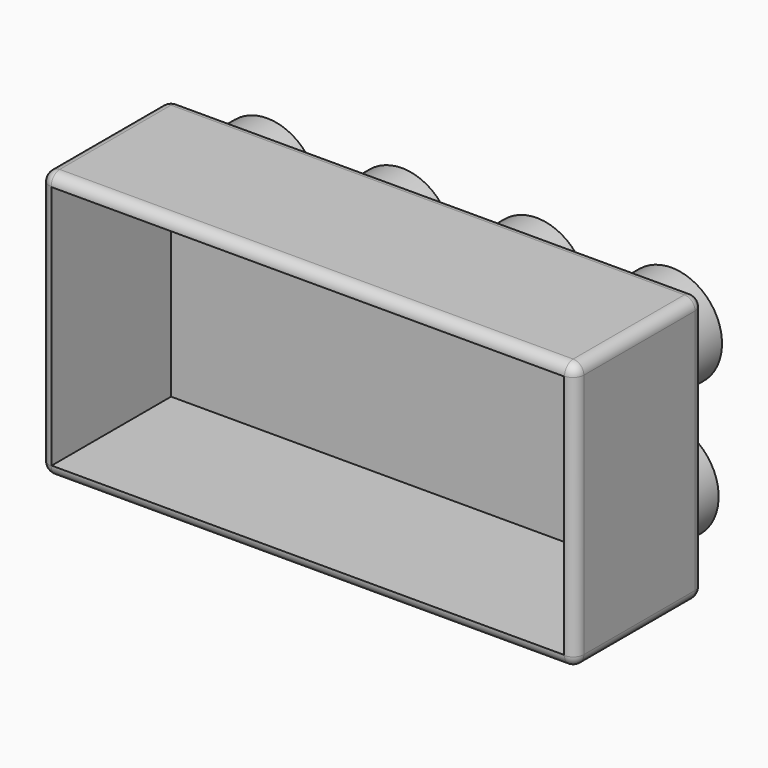
from build123d import *

# Parameters (mm, degrees)
F0_W     = 63.5
F0_H     = 19.05
F1_DEPTH = 31.75
F2_T     = -1.3208
F3_R     = 5.9944
F3_R_2   = 4.6736
F4_DEPTH = 5.08
F5_R     = 1.27


with BuildPart() as f1:
    # F0 (on Top) → F1 (new body)
    with BuildSketch(Plane.XY):
        with Locations((-31.75, 9.525)):
            Rectangle(F0_W, F0_H)
    extrude(amount=F1_DEPTH)

    # F2
    f2_openings = [f1.faces().sort_by_distance(p)[0] for p in [
        (-31.75, 0, 15.875),
    ]]
    offset(amount=F2_T, openings=f2_openings)

    # F3 (on face) → F4 (join)
    with BuildSketch(Plane(origin=(0, 19.05, 0), x_dir=(-1, 0, 0), z_dir=(0, 1, 0))):
        with Locations((7.874, 23.876)):
            Circle(F3_R)
        with Locations((7.874, 23.876)):
            Circle(F3_R_2, mode=Mode.SUBTRACT)
        with Locations((23.876, 23.876)):
            Circle(F3_R)
        with Locations((23.876, 23.876)):
            Circle(F3_R_2, mode=Mode.SUBTRACT)
        with Locations((39.878, 23.876)):
            Circle(F3_R)
        with Locations((39.878, 23.876)):
            Circle(F3_R_2, mode=Mode.SUBTRACT)
        with Locations((55.88, 23.876)):
            Circle(F3_R)
        with Locations((55.88, 23.876)):
            Circle(F3_R_2, mode=Mode.SUBTRACT)
        with Locations((8.275095, 7.751988)):
            Circle(F3_R)
        with Locations((8.275095, 7.751988)):
            Circle(F3_R_2, mode=Mode.SUBTRACT)
        with Locations((56.281095, 7.751988)):
            Circle(F3_R)
        with Locations((56.281095, 7.751988)):
            Circle(F3_R_2, mode=Mode.SUBTRACT)
        with Locations((40.279095, 7.751988)):
            Circle(F3_R)
        with Locations((40.279095, 7.751988)):
            Circle(F3_R_2, mode=Mode.SUBTRACT)
        with Locations((24.277095, 7.751988)):
            Circle(F3_R)
        with Locations((24.277095, 7.751988)):
            Circle(F3_R_2, mode=Mode.SUBTRACT)
    extrude(amount=F4_DEPTH)

    # F5
    f5_edges = [f1.edges().sort_by_distance(p)[0] for p in [
        (-31.75, 19.05, 31.75),
        (-63.5, 9.525, 31.75),
        (-31.75, 0, 31.75),
        (0, 9.525, 31.75),
        (-63.5, 19.05, 15.875),
        (-63.5, 0, 15.875),
        (-63.5, 9.525, 0),
        (0, 0, 15.875),
        (0, 19.05, 15.875),
        (0, 9.525, 0),
        (-31.75, 19.05, 0),
        (-31.75, 0, 0),
    ]]
    fillet(f5_edges, radius=F5_R)


solid = f1.part
